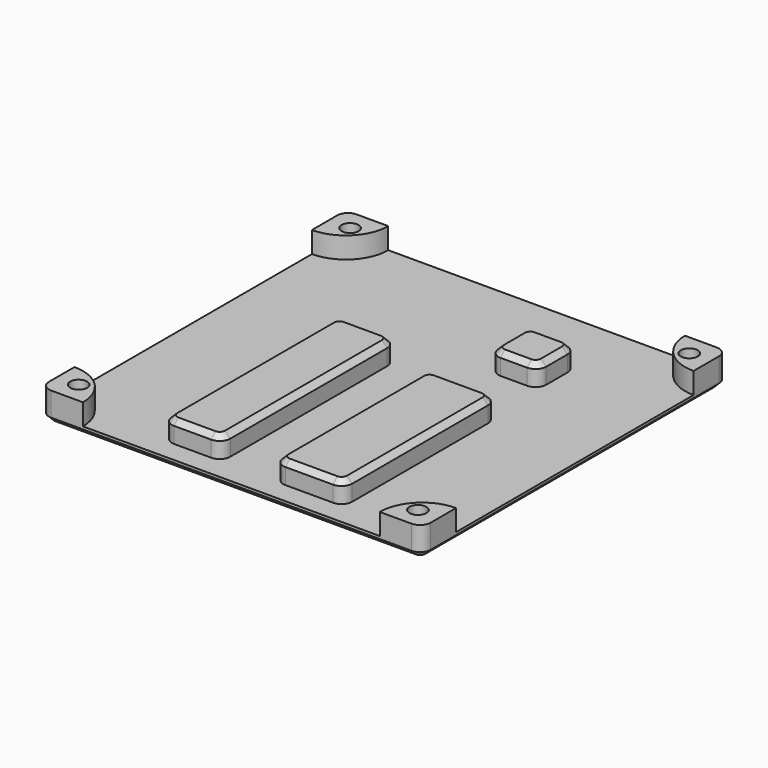
from build123d import *

# Parameters (mm, degrees)
SKETCH_W        = 72
SKETCH_H        = 72
PAD_DEPTH       = 1.5
PAD001_DEPTH    = 4
SKETCH002_R     = 1.6
POCKET_DEPTH    = 5.501
SKETCH003_W     = 11
SKETCH003_H     = 41
SKETCH003_W_2   = 13
SKETCH003_H_2   = 36
SKETCH003_W_3   = 9
SKETCH003_H_3   = 9
PAD002_DEPTH    = 4
FILLET_R        = 2
CHAMFER_SIZE    = 1
FILLET001_R     = 2
CHAMFER001_SIZE = 1


with BuildPart() as part:
    # Sketch → Pad (new body)
    with BuildSketch(Plane.XY):
        with Locations((36, -36)):
            Rectangle(SKETCH_W, SKETCH_H)
    extrude(amount=PAD_DEPTH)

    # Sketch001 (on Face6 of Pad) → Pad001 (join)
    with BuildSketch(Plane.XY.offset(1.5)):
        with BuildLine():
            ThreePointArc((0, -8), (5.656854, -5.656854), (8, 0))
            Line((0, 0), (8, 0))
            Line((0, -8), (0, 0))
        make_face()
        with BuildLine():
            ThreePointArc((8, -72), (5.656854, -66.343146), (0, -64))
            Line((0, -72), (0, -64))
            Line((8, -72), (0, -72))
        make_face()
        with BuildLine():
            ThreePointArc((72, -64), (66.343146, -66.343146), (64, -72))
            Line((64, -72), (72, -72))
            Line((72, -72), (72, -64))
        make_face()
        with BuildLine():
            ThreePointArc((64, 0), (66.343146, -5.656854), (72, -8))
            Line((72, -8), (72, 0))
            Line((72, 0), (64, 0))
        make_face()
    extrude(amount=PAD001_DEPTH)

    # Sketch002 (on Face14 of Pad001) → Pocket (cut, through all)
    with BuildSketch(Plane.XY.offset(5.5)):
        with Locations((4, -4)):
            Circle(SKETCH002_R)
        with Locations((68, -4)):
            Circle(SKETCH002_R)
        with Locations((68, -68)):
            Circle(SKETCH002_R)
        with Locations((4, -68)):
            Circle(SKETCH002_R)
    extrude(amount=-POCKET_DEPTH, mode=Mode.SUBTRACT)

    # Sketch003 (on Face6 of Pocket) → Pad002 (join)
    with BuildSketch(Plane.XY.offset(1.5)):
        with Locations((25.5, -47.5)):
            Rectangle(SKETCH003_W, SKETCH003_H)
        with Locations((47.5, -50)):
            Rectangle(SKETCH003_W_2, SKETCH003_H_2)
        with Locations((48.5, -16.5)):
            Rectangle(SKETCH003_W_3, SKETCH003_H_3)
    extrude(amount=PAD002_DEPTH)

    # Fillet
    fillet_edges = [part.edges().sort_by_distance(p)[0] for p in [
        (20, -68, 3.5),
        (31, -68, 3.5),
        (31, -27, 3.5),
        (20, -27, 3.5),
        (44, -12, 3.5),
        (53, -12, 3.5),
        (53, -21, 3.5),
        (44, -21, 3.5),
        (41, -32, 3.5),
        (54, -32, 3.5),
        (54, -68, 3.5),
        (41, -68, 3.5),
    ]]
    fillet(fillet_edges, radius=FILLET_R)

    # Chamfer
    chamfer_edges = [part.edges().sort_by_distance(p)[0] for p in [
        (20, -47.5, 5.5),
        (41, -50, 5.5),
        (44, -16.5, 5.5),
    ]]
    chamfer(chamfer_edges, length=CHAMFER_SIZE)

    # Fillet001
    fillet001_edges = [part.edges().sort_by_distance(p)[0] for p in [
        (72, -72, 3.5),
        (0, -72, 3.5),
        (0, 0, 3.5),
        (72, 0, 3.5),
    ]]
    fillet(fillet001_edges, radius=FILLET001_R)

    # Chamfer001
    chamfer001_edges = [part.edges().sort_by_distance(p)[0] for p in [
        (72, -36, 0),
    ]]
    chamfer(chamfer001_edges, length=CHAMFER001_SIZE)


solid = part.part
